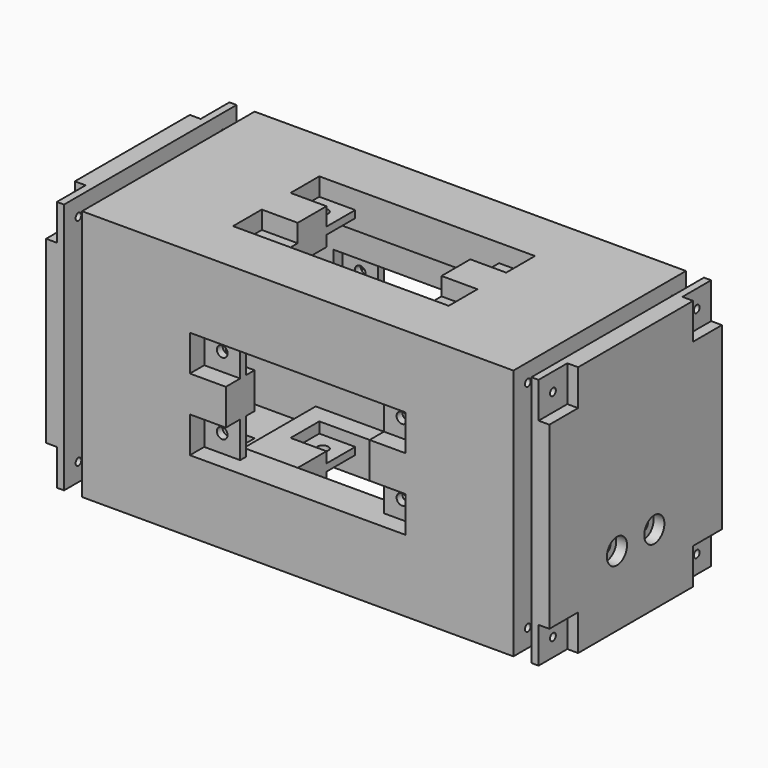
from build123d import *

# Parameters (mm, degrees)
CYLINDER006_R           = 1.5
CYLINDER006_DEPTH       = 15
CYLINDER006_PITCH_ANGLE = 90
ARRAY008_X_COUNT        = 2
ARRAY008_X_PITCH        = 52.5
ARRAY008_Y_COUNT        = 2
ARRAY008_Y_PITCH        = 25
CYLINDER004_R           = 1
CYLINDER004_DEPTH       = 30
CYLINDER004_PITCH_ANGLE = 90
ARRAY005_X_COUNT        = 2
ARRAY005_X_PITCH        = 60
ARRAY005_Y_COUNT        = 2
ARRAY005_Y_PITCH        = 50
BOX003_W                = 3
BOX003_H                = 10
BOX003_DEPTH            = 10
ARRAY004_X_COUNT        = 2
ARRAY004_X_PITCH        = 60
ARRAY004_Y_COUNT        = 2
ARRAY004_Y_PITCH        = 50
BOX002_W                = 5
BOX002_H                = 60
BOX002_DEPTH            = 70
SKETCH009_R             = 3.5
POCKET004_DEPTH         = 3
CUT009_PLACEMENT_ANGLE  = 180
BOX007_W                = 10
BOX007_H                = 15
BOX007_DEPTH            = 10
BOX006_W                = 25
BOX006_H                = 40
BOX006_DEPTH            = 60
ARRAY009_X_COUNT        = 2
ARRAY009_X_PITCH        = 95
CYLINDER003_R           = 1
CYLINDER003_DEPTH       = 6
CYLINDER003_PITCH_ANGLE = 90
ARRAY003_X_COUNT        = 2
ARRAY003_X_PITCH        = 50
ARRAY003_Y_COUNT        = 2
ARRAY003_Y_PITCH        = 60
CYLINDER002_R           = 1
CYLINDER002_DEPTH       = 6
CYLINDER002_PITCH_ANGLE = 90
ARRAY002_X_COUNT        = 2
ARRAY002_X_PITCH        = 50
ARRAY002_Y_COUNT        = 2
ARRAY002_Y_PITCH        = 60
CYLINDER001_R           = 1.5
CYLINDER001_DEPTH       = 90
CYLINDER001_ROLL_ANGLE  = 90
ARRAY001_X_COUNT        = 2
ARRAY001_X_PITCH        = 50
ARRAY001_Y_COUNT        = 2
ARRAY001_Y_PITCH        = 20
CYLINDER_R              = 1.5
CYLINDER_DEPTH          = 90
ARRAY_X_COUNT           = 2
ARRAY_X_PITCH           = 50
ARRAY_Y_COUNT           = 2
ARRAY_Y_PITCH           = 20
BOX_W                   = 120
BOX_H                   = 40
BOX_DEPTH               = 50
PAD_DEPTH               = 3
PAD_DEPTH_BACK          = 53
SKETCH001_W             = 40
SKETCH001_H             = 30
PAD001_DEPTH            = 2
PAD001_DEPTH_BACK       = 58
PAD002_DEPTH            = 10
PAD003_DEPTH            = 10
SKETCH004_W             = 60
SKETCH004_H             = 30
PAD004_DEPTH            = 20
PAD004_DEPTH_BACK       = 60
SKETCH005_W             = 2
SKETCH005_H             = 10
POCKET_DEPTH            = 10
SKETCH006_W             = 20
SKETCH006_H             = 10
POCKET001_DEPTH         = 10
SKETCH007_W             = 2
SKETCH007_H             = 10
POCKET002_DEPTH         = 10
SKETCH008_W             = 20
SKETCH008_H             = 10
POCKET003_DEPTH         = 10
BOX001_W                = 120
BOX001_H                = 60
BOX001_DEPTH            = 70
CYLINDER007_R           = 1.5
CYLINDER007_DEPTH       = 5
CYLINDER007_PITCH_ANGLE = 90
ARRAY011_Y_COUNT        = 2
ARRAY011_Y_PITCH        = 13
BOX011_W                = 3
BOX011_H                = 23
BOX011_DEPTH            = 10
BOX010_W                = 5
BOX010_H                = 23
BOX010_DEPTH            = 12
CYLINDER008_R           = 1.5
CYLINDER008_DEPTH       = 2
CYLINDER008_PITCH_ANGLE = 90
ARRAY012_Y_COUNT        = 2
ARRAY012_Y_PITCH        = 13
CYLINDER009_R           = 3.5
CYLINDER009_DEPTH       = 3
CYLINDER009_PITCH_ANGLE = 90
ARRAY013_Y_COUNT        = 2
ARRAY013_Y_PITCH        = 13
CYLINDER005_R           = 1
CYLINDER005_DEPTH       = 30
CYLINDER005_PITCH_ANGLE = 90
ARRAY007_X_COUNT        = 2
ARRAY007_X_PITCH        = 60
ARRAY007_Y_COUNT        = 2
ARRAY007_Y_PITCH        = 50
BOX005_W                = 3
BOX005_H                = 10
BOX005_DEPTH            = 10
ARRAY006_X_COUNT        = 2
ARRAY006_X_PITCH        = 60
ARRAY006_Y_COUNT        = 2
ARRAY006_Y_PITCH        = 50
BOX004_W                = 5
BOX004_H                = 60
BOX004_DEPTH            = 70
SKETCH010_W             = 23
SKETCH010_H             = 5
PAD005_DEPTH            = 5
BOX009_W                = 23
BOX009_H                = 5
BOX009_DEPTH            = 2
BOX008_W                = 5
BOX008_H                = 5
BOX008_DEPTH            = 5
ARRAY010_X_COUNT        = 2
ARRAY010_X_PITCH        = 25.5
CHAMFER_SIZE            = 2.5
CHAMFER_ROLL_ANGLE      = 90
CHAMFER_PLACEMENT_ANGLE = -90


with BuildPart() as obj1:
    # Cylinder006 → Cylinder006 (new body)
    with BuildSketch(Plane.XY):
        Circle(CYLINDER006_R)
    extrude(amount=CYLINDER006_DEPTH)


with BuildPart() as obj1_1:
    # Cylinder006 pitch: moved
    add(obj1.part.rotate(Axis((0, 0, 0), (0, 1, 0)), CYLINDER006_PITCH_ANGLE))


with BuildPart() as obj1_2:
    # Cylinder006 placement: moved
    add(obj1_1.part.moved(Location((0, 17.5, 8.5))))

    # Array008 X: obj1_2


with BuildPart() as obj1_3:
    add(obj1_2.part)
    with Locations(*[(0, 0, i * ARRAY008_X_PITCH) for i in range(1, ARRAY008_X_COUNT)]):
        add(obj1_2.part)

    # Array008 Y: obj1_2


with BuildPart() as obj1_4:
    add(obj1_3.part)
    with Locations(*[(0, i * ARRAY008_Y_PITCH, 0) for i in range(1, ARRAY008_Y_COUNT)]):
        add(obj1_3.part)


with BuildPart() as obj1_5:
    # Array008 placement: moved
    add(obj1_4.part.moved(Location((-7, 0, 0))))


with BuildPart() as agujerostapa:
    # Cylinder004 → Cylinder004 (new body)
    with BuildSketch(Plane.XY):
        Circle(CYLINDER004_R)
    extrude(amount=CYLINDER004_DEPTH)


with BuildPart() as agujerostapa_1:
    # Cylinder004 pitch: moved
    add(agujerostapa.part.rotate(Axis((0, 0, 0), (0, 1, 0)), CYLINDER004_PITCH_ANGLE))


with BuildPart() as agujerostapa_2:
    # Cylinder004 placement: moved
    add(agujerostapa_1.part.moved(Location((-10, 5, 5))))

    # Array005 X: AgujerosTapa ×2


with BuildPart() as agujerostapa_3:
    add(agujerostapa_2.part)
    with Locations(*[(0, 0, i * ARRAY005_X_PITCH) for i in range(1, ARRAY005_X_COUNT)]):
        add(agujerostapa_2.part)

    # Array005 Y: AgujerosTapa ×2


with BuildPart() as agujerostapa_4:
    add(agujerostapa_3.part)
    with Locations(*[(0, i * ARRAY005_Y_PITCH, 0) for i in range(1, ARRAY005_Y_COUNT)]):
        add(agujerostapa_3.part)


with BuildPart() as huecostapa:
    # Box003 → Box003 (new body)
    with BuildSketch(Plane.XY):
        with Locations((1.5, 5)):
            Rectangle(BOX003_W, BOX003_H)
    extrude(amount=BOX003_DEPTH)

    # Array004 X: HuecosTapa ×2


with BuildPart() as huecostapa_1:
    add(huecostapa.part)
    with Locations(*[(0, 0, i * ARRAY004_X_PITCH) for i in range(1, ARRAY004_X_COUNT)]):
        add(huecostapa.part)

    # Array004 Y: HuecosTapa ×2


with BuildPart() as huecostapa_2:
    add(huecostapa_1.part)
    with Locations(*[(0, i * ARRAY004_Y_PITCH, 0) for i in range(1, ARRAY004_Y_COUNT)]):
        add(huecostapa_1.part)


with BuildPart() as huecostapa_3:
    # Array004 placement: moved
    add(huecostapa_2.part.moved(Location((2, 0, 0))))


with BuildPart() as obj2:
    # Box002 → Box002 (new body)
    with BuildSketch(Plane.XY):
        with Locations((2.5, 30)):
            Rectangle(BOX002_W, BOX002_H)
    extrude(amount=BOX002_DEPTH)

    # Cut005: cut HuecosTapa
    add(huecostapa_3.part, mode=Mode.SUBTRACT)

    # Cut006: cut AgujerosTapa
    add(agujerostapa_4.part, mode=Mode.SUBTRACT)

    # Sketch009 → Pocket004 (cut)
    with BuildSketch(Plane.YZ.offset(5)):
        with Locations((17.5, 61)):
            Circle(SKETCH009_R)
        with Locations((42.5, 61)):
            Circle(SKETCH009_R)
        with Locations((42.5, 8.5)):
            Circle(SKETCH009_R)
        with Locations((17.5, 8.5)):
            Circle(SKETCH009_R)
    extrude(amount=-POCKET004_DEPTH, mode=Mode.SUBTRACT)

    # Cut009: cut obj1
    add(obj1_5.part, mode=Mode.SUBTRACT)


with BuildPart() as obj2_1:
    # Cut009 placement: moved
    add(obj2.part.moved(Location((-5, 50, -10))).rotate(Axis((-5, 50, -10), (0, 0, 1)), CUT009_PLACEMENT_ANGLE))


with BuildPart() as huecousb:
    # Box007 → Box007 (new body)
    with BuildSketch(Plane(origin=(8, 12.5, -12), x_dir=(1, 0, 0), z_dir=(0, 0, 1))):
        with Locations((5, 7.5)):
            Rectangle(BOX007_W, BOX007_H)
    extrude(amount=BOX007_DEPTH)


with BuildPart() as obj3:
    # Box006 → Box006 (new body)
    with BuildSketch(Plane.XY):
        with Locations((12.5, 20)):
            Rectangle(BOX006_W, BOX006_H)
    extrude(amount=BOX006_DEPTH)

    # Array009 X: obj3_2


with BuildPart() as obj3_1:
    add(obj3.part)
    with Locations(*[(i * ARRAY009_X_PITCH, 0, 0) for i in range(1, ARRAY009_X_COUNT)]):
        add(obj3.part)


with BuildPart() as obj3_2:
    # Array009 placement: moved
    add(obj3_1.part.moved(Location((0, 0, -5))))


with BuildPart() as agujeroscarcasa_b:
    # Cylinder003 → Cylinder003 (new body)
    with BuildSketch(Plane.XY):
        Circle(CYLINDER003_R)
    extrude(amount=CYLINDER003_DEPTH)


with BuildPart() as agujeroscarcasa_b_1:
    # Cylinder003 pitch: moved
    add(agujeroscarcasa_b.part.rotate(Axis((0, 0, 0), (0, 1, 0)), CYLINDER003_PITCH_ANGLE))


with BuildPart() as agujeroscarcasa_b_2:
    # Cylinder003 placement: moved
    add(agujeroscarcasa_b_1.part)

    # Array003 X: AgujerosCarcasa_B ×2


with BuildPart() as agujeroscarcasa_b_3:
    add(agujeroscarcasa_b_2.part)
    with Locations(*[(0, i * ARRAY003_X_PITCH, 0) for i in range(1, ARRAY003_X_COUNT)]):
        add(agujeroscarcasa_b_2.part)

    # Array003 Y: AgujerosCarcasa_B ×2


with BuildPart() as agujeroscarcasa_b_4:
    add(agujeroscarcasa_b_3.part)
    with Locations(*[(0, 0, i * ARRAY003_Y_PITCH) for i in range(1, ARRAY003_Y_COUNT)]):
        add(agujeroscarcasa_b_3.part)


with BuildPart() as agujeroscarcasa_b_5:
    # Array003 placement: moved
    add(agujeroscarcasa_b_4.part.moved(Location((117, -5, -5))))


with BuildPart() as agujeroscarcasa_a:
    # Cylinder002 → Cylinder002 (new body)
    with BuildSketch(Plane.XY):
        Circle(CYLINDER002_R)
    extrude(amount=CYLINDER002_DEPTH)


with BuildPart() as agujeroscarcasa_a_1:
    # Cylinder002 pitch: moved
    add(agujeroscarcasa_a.part.rotate(Axis((0, 0, 0), (0, 1, 0)), CYLINDER002_PITCH_ANGLE))


with BuildPart() as agujeroscarcasa_a_2:
    # Cylinder002 placement: moved
    add(agujeroscarcasa_a_1.part)

    # Array002 X: AgujerosCarcasa_A ×2


with BuildPart() as agujeroscarcasa_a_3:
    add(agujeroscarcasa_a_2.part)
    with Locations(*[(0, i * ARRAY002_X_PITCH, 0) for i in range(1, ARRAY002_X_COUNT)]):
        add(agujeroscarcasa_a_2.part)

    # Array002 Y: AgujerosCarcasa_A ×2


with BuildPart() as agujeroscarcasa_a_4:
    add(agujeroscarcasa_a_3.part)
    with Locations(*[(0, 0, i * ARRAY002_Y_PITCH) for i in range(1, ARRAY002_Y_COUNT)]):
        add(agujeroscarcasa_a_3.part)


with BuildPart() as agujeroscarcasa_a_5:
    # Array002 placement: moved
    add(agujeroscarcasa_a_4.part.moved(Location((-3, -5, -5))))


with BuildPart() as agujeros_7x13:
    # Cylinder001 → Cylinder001 (new body)
    with BuildSketch(Plane.XY):
        Circle(CYLINDER001_R)
    extrude(amount=CYLINDER001_DEPTH)


with BuildPart() as agujeros_7x13_1:
    # Cylinder001 roll: moved
    add(agujeros_7x13.part.rotate(Axis((0, 0, 0), (1, 0, 0)), CYLINDER001_ROLL_ANGLE))


with BuildPart() as agujeros_7x13_2:
    # Cylinder001 placement: moved
    add(agujeros_7x13_1.part)

    # Array001 X: Agujeros_7x13 ×2


with BuildPart() as agujeros_7x13_3:
    add(agujeros_7x13_2.part)
    with Locations(*[(i * ARRAY001_X_PITCH, 0, 0) for i in range(1, ARRAY001_X_COUNT)]):
        add(agujeros_7x13_2.part)

    # Array001 Y: Agujeros_7x13 ×2


with BuildPart() as agujeros_7x13_4:
    add(agujeros_7x13_3.part)
    with Locations(*[(0, 0, i * ARRAY001_Y_PITCH) for i in range(1, ARRAY001_Y_COUNT)]):
        add(agujeros_7x13_3.part)


with BuildPart() as agujeros_7x13_5:
    # Array001 placement: moved
    add(agujeros_7x13_4.part.moved(Location((35, 56, 15))))


with BuildPart() as agujeros_6x13:
    # Cylinder → Cylinder (new body)
    with BuildSketch(Plane.XY):
        Circle(CYLINDER_R)
    extrude(amount=CYLINDER_DEPTH)

    # Array X: Agujeros_6x13 ×2


with BuildPart() as agujeros_6x13_1:
    add(agujeros_6x13.part)
    with Locations(*[(i * ARRAY_X_PITCH, 0, 0) for i in range(1, ARRAY_X_COUNT)]):
        add(agujeros_6x13.part)

    # Array Y: Agujeros_6x13 ×2


with BuildPart() as agujeros_6x13_2:
    add(agujeros_6x13_1.part)
    with Locations(*[(0, i * ARRAY_Y_PITCH, 0) for i in range(1, ARRAY_Y_COUNT)]):
        add(agujeros_6x13_1.part)


with BuildPart() as agujeros_6x13_3:
    # Array placement: moved
    add(agujeros_6x13_2.part.moved(Location((35, 10, -15))))


with BuildPart() as huecointerior:
    # Box → Box (new body)
    with BuildSketch(Plane.XY):
        with Locations((60, 20)):
            Rectangle(BOX_W, BOX_H)
    extrude(amount=BOX_DEPTH)

    # Sketch → Pad (new body, two sides)
    with BuildSketch(Plane.XY.offset(50)) as pad_sk:
        Polygon((30, 35), (90, 35), (90, 25), (80, 25), (80, 15), (90, 15), (90, 5), (30, 5), (30, 15), (40, 15), (40, 25), (30, 25), align=None)
    extrude(amount=PAD_DEPTH)
    extrude(pad_sk.sketch, amount=-PAD_DEPTH_BACK)

    # Sketch001 → Pad001 (new body, two sides)
    with BuildSketch(Plane.XY.offset(53)) as pad001_sk:
        with Locations((60, 20)):
            Rectangle(SKETCH001_W, SKETCH001_H)
    extrude(amount=PAD001_DEPTH)
    extrude(pad001_sk.sketch, amount=-PAD001_DEPTH_BACK)

    # Sketch002 → Pad002 (new body)
    with BuildSketch(Plane.XY.offset(55)):
        Polygon((30, 35), (90, 35), (90, 25), (80, 25), (80, 15), (90, 15), (90, 5), (30, 5), (30, 15), (40, 15), (40, 25), (30, 25), align=None)
    extrude(amount=PAD002_DEPTH)

    # Sketch003 → Pad003 (new body)
    with BuildSketch(Plane(origin=(0, 0, -5), x_dir=(1, 0, 0), z_dir=(0, 0, -1))):
        Polygon((30, -5), (90, -5), (90, -15), (80, -15), (80, -25), (90, -25), (90, -35), (30, -35), (30, -25), (40, -25), (40, -15), (30, -15), align=None)
    extrude(amount=PAD003_DEPTH)

    # Sketch004 → Pad004 (new body, two sides)
    with BuildSketch(Plane.XZ) as pad004_sk:
        with Locations((60, 25)):
            Rectangle(SKETCH004_W, SKETCH004_H)
    extrude(amount=PAD004_DEPTH)
    extrude(pad004_sk.sketch, amount=-PAD004_DEPTH_BACK)

    # Sketch005 → Pocket (cut)
    with BuildSketch(Plane(origin=(30, 0, 0), x_dir=(0, -1, 0), z_dir=(-1, 0, 0))):
        with Locations((-44, 35)):
            Rectangle(SKETCH005_W, SKETCH005_H)
        with Locations((4, 35)):
            Rectangle(SKETCH005_W, SKETCH005_H)
        with Locations((-44, 15)):
            Rectangle(SKETCH005_W, SKETCH005_H)
        with Locations((4, 15)):
            Rectangle(SKETCH005_W, SKETCH005_H)
    extrude(amount=-POCKET_DEPTH, mode=Mode.SUBTRACT)

    # Sketch006 → Pocket001 (cut)
    with BuildSketch(Plane(origin=(30, 0, 0), x_dir=(0, -1, 0), z_dir=(-1, 0, 0))):
        with Locations((-50, 25)):
            Rectangle(SKETCH006_W, SKETCH006_H)
        with Locations((10, 25)):
            Rectangle(SKETCH006_W, SKETCH006_H)
    extrude(amount=-POCKET001_DEPTH, mode=Mode.SUBTRACT)

    # Sketch007 → Pocket002 (cut)
    with BuildSketch(Plane.YZ.offset(90)):
        with Locations((-4, 35)):
            Rectangle(SKETCH007_W, SKETCH007_H)
        with Locations((-4, 15)):
            Rectangle(SKETCH007_W, SKETCH007_H)
        with Locations((44, 35)):
            Rectangle(SKETCH007_W, SKETCH007_H)
        with Locations((44, 15)):
            Rectangle(SKETCH007_W, SKETCH007_H)
    extrude(amount=-POCKET002_DEPTH, mode=Mode.SUBTRACT)

    # Sketch008 → Pocket003 (cut)
    with BuildSketch(Plane.YZ.offset(90)):
        with Locations((-10, 25)):
            Rectangle(SKETCH008_W, SKETCH008_H)
        with Locations((50, 25)):
            Rectangle(SKETCH008_W, SKETCH008_H)
    extrude(amount=-POCKET003_DEPTH, mode=Mode.SUBTRACT)


with BuildPart() as carcasa_control:
    # Box001 → Box001 (new body)
    with BuildSketch(Plane(origin=(0, -10, -10), x_dir=(1, 0, 0), z_dir=(0, 0, 1))):
        with Locations((60, 30)):
            Rectangle(BOX001_W, BOX001_H)
    extrude(amount=BOX001_DEPTH)

    # Cut: cut HuecoInterior
    add(huecointerior.part, mode=Mode.SUBTRACT)

    # Cut001: cut Agujeros_6x13
    add(agujeros_6x13_3.part, mode=Mode.SUBTRACT)

    # Cut002: cut Agujeros_7x13
    add(agujeros_7x13_5.part, mode=Mode.SUBTRACT)

    # Cut003: cut AgujerosCarcasa_A
    add(agujeroscarcasa_a_5.part, mode=Mode.SUBTRACT)

    # Cut004: cut AgujerosCarcasa_B
    add(agujeroscarcasa_b_5.part, mode=Mode.SUBTRACT)

    # Cut010: cut obj3
    add(obj3_2.part, mode=Mode.SUBTRACT)

    # Cut011: cut HuecoUSB
    add(huecousb.part, mode=Mode.SUBTRACT)


with BuildPart() as obj4:
    # Cylinder007 → Cylinder007 (new body)
    with BuildSketch(Plane.XY):
        Circle(CYLINDER007_R)
    extrude(amount=CYLINDER007_DEPTH)


with BuildPart() as obj4_1:
    # Cylinder007 pitch: moved
    add(obj4.part.rotate(Axis((0, 0, 0), (0, 1, 0)), CYLINDER007_PITCH_ANGLE))


with BuildPart() as obj4_2:
    # Cylinder007 placement: moved
    add(obj4_1.part.moved(Location((120, 13.5, 9.5))))

    # Array011 Y: obj4_2


with BuildPart() as obj4_3:
    add(obj4_2.part)
    with Locations(*[(0, i * ARRAY011_Y_PITCH, 0) for i in range(1, ARRAY011_Y_COUNT)]):
        add(obj4_2.part)


with BuildPart() as obj5:
    # Box011 → Box011 (new body)
    with BuildSketch(Plane.XY):
        with Locations((1.5, 11.5)):
            Rectangle(BOX011_W, BOX011_H)
    extrude(amount=BOX011_DEPTH)


with BuildPart() as obj6:
    # Box010 → Box010 (new body)
    with BuildSketch(Plane.XY):
        with Locations((2.5, 11.5)):
            Rectangle(BOX010_W, BOX010_H)
    extrude(amount=BOX010_DEPTH)

    # Cut013: cut obj5
    add(obj5.part, mode=Mode.SUBTRACT)


with BuildPart() as obj6_1:
    # Cut013 placement: moved
    add(obj6.part.moved(Location((120, 8.5, 4.5))))

    # Cut014: cut obj4
    add(obj4_3.part, mode=Mode.SUBTRACT)


with BuildPart() as obj7:
    # Cylinder008 → Cylinder008 (new body)
    with BuildSketch(Plane.XY):
        Circle(CYLINDER008_R)
    extrude(amount=CYLINDER008_DEPTH)


with BuildPart() as obj7_1:
    # Cylinder008 pitch: moved
    add(obj7.part.rotate(Axis((0, 0, 0), (0, 1, 0)), CYLINDER008_PITCH_ANGLE))


with BuildPart() as obj7_2:
    # Cylinder008 placement: moved
    add(obj7_1.part.moved(Location((125, 13.5, 9.5))))

    # Array012 Y: obj7_2


with BuildPart() as obj7_3:
    add(obj7_2.part)
    with Locations(*[(0, i * ARRAY012_Y_PITCH, 0) for i in range(1, ARRAY012_Y_COUNT)]):
        add(obj7_2.part)


with BuildPart() as obj8:
    # Cylinder009 → Cylinder009 (new body)
    with BuildSketch(Plane.XY):
        Circle(CYLINDER009_R)
    extrude(amount=CYLINDER009_DEPTH)


with BuildPart() as obj8_1:
    # Cylinder009 pitch: moved
    add(obj8.part.rotate(Axis((0, 0, 0), (0, 1, 0)), CYLINDER009_PITCH_ANGLE))


with BuildPart() as obj8_2:
    # Cylinder009 placement: moved
    add(obj8_1.part.moved(Location((127, 13.5, 9.5))))

    # Array013 Y: obj8_2


with BuildPart() as obj8_3:
    add(obj8_2.part)
    with Locations(*[(0, i * ARRAY013_Y_PITCH, 0) for i in range(1, ARRAY013_Y_COUNT)]):
        add(obj8_2.part)


with BuildPart() as agujerostapa001:
    # Cylinder005 → Cylinder005 (new body)
    with BuildSketch(Plane.XY):
        Circle(CYLINDER005_R)
    extrude(amount=CYLINDER005_DEPTH)


with BuildPart() as agujerostapa001_1:
    # Cylinder005 pitch: moved
    add(agujerostapa001.part.rotate(Axis((0, 0, 0), (0, 1, 0)), CYLINDER005_PITCH_ANGLE))


with BuildPart() as agujerostapa001_2:
    # Cylinder005 placement: moved
    add(agujerostapa001_1.part.moved(Location((-10, 5, 5))))

    # Array007 X: AgujerosTapa001 ×2


with BuildPart() as agujerostapa001_3:
    add(agujerostapa001_2.part)
    with Locations(*[(0, 0, i * ARRAY007_X_PITCH) for i in range(1, ARRAY007_X_COUNT)]):
        add(agujerostapa001_2.part)

    # Array007 Y: AgujerosTapa001 ×2


with BuildPart() as agujerostapa001_4:
    add(agujerostapa001_3.part)
    with Locations(*[(0, i * ARRAY007_Y_PITCH, 0) for i in range(1, ARRAY007_Y_COUNT)]):
        add(agujerostapa001_3.part)


with BuildPart() as huecostapa001:
    # Box005 → Box005 (new body)
    with BuildSketch(Plane.XY):
        with Locations((1.5, 5)):
            Rectangle(BOX005_W, BOX005_H)
    extrude(amount=BOX005_DEPTH)

    # Array006 X: HuecosTapa001 ×2


with BuildPart() as huecostapa001_1:
    add(huecostapa001.part)
    with Locations(*[(0, 0, i * ARRAY006_X_PITCH) for i in range(1, ARRAY006_X_COUNT)]):
        add(huecostapa001.part)

    # Array006 Y: HuecosTapa001 ×2


with BuildPart() as huecostapa001_2:
    add(huecostapa001_1.part)
    with Locations(*[(0, i * ARRAY006_Y_PITCH, 0) for i in range(1, ARRAY006_Y_COUNT)]):
        add(huecostapa001_1.part)


with BuildPart() as huecostapa001_3:
    # Array006 placement: moved
    add(huecostapa001_2.part.moved(Location((2, 0, 0))))


with BuildPart() as cut016:
    # Box004 → Box004 (new body)
    with BuildSketch(Plane.XY):
        with Locations((2.5, 30)):
            Rectangle(BOX004_W, BOX004_H)
    extrude(amount=BOX004_DEPTH)

    # Cut007: cut HuecosTapa001
    add(huecostapa001_3.part, mode=Mode.SUBTRACT)

    # Cut008: cut AgujerosTapa001
    add(agujerostapa001_4.part, mode=Mode.SUBTRACT)


with BuildPart() as cut016_1:
    # Cut008 placement: moved
    add(cut016.part.moved(Location((125, -10, -10))))

    # Sketch010 → Pad005 (new body)
    with BuildSketch(Plane(origin=(125, -10, -10), x_dir=(0, -1, 0), z_dir=(-1, 0, 0))):
        with Locations((-30, 46)):
            Rectangle(SKETCH010_W, SKETCH010_H)
    extrude(amount=PAD005_DEPTH)

    # Cut015: cut obj8
    add(obj8_3.part, mode=Mode.SUBTRACT)

    # Cut016: cut obj7
    add(obj7_3.part, mode=Mode.SUBTRACT)


with BuildPart() as hueco_clavijas:
    # Box009 → Box009 (new body)
    with BuildSketch(Plane(origin=(3.75, 0, 0), x_dir=(1, 0, 0), z_dir=(0, 0, 1))):
        with Locations((11.5, 2.5)):
            Rectangle(BOX009_W, BOX009_H)
    extrude(amount=BOX009_DEPTH)


with BuildPart() as obj9:
    # Box008 → Box008 (new body)
    with BuildSketch(Plane.XY):
        with Locations((2.5, 2.5)):
            Rectangle(BOX008_W, BOX008_H)
    extrude(amount=BOX008_DEPTH)

    # Array010 X: obj9_2


with BuildPart() as obj9_1:
    add(obj9.part)
    with Locations(*[(i * ARRAY010_X_PITCH, 0, 0) for i in range(1, ARRAY010_X_COUNT)]):
        add(obj9.part)

    # Cut012: cut Hueco_clavijas
    add(hueco_clavijas.part, mode=Mode.SUBTRACT)

    # Chamfer
    chamfer_edges = [obj9_1.edges().sort_by_distance(p)[0] for p in [
        (5, 2.5, 5),
        (25.5, 2.5, 5),
    ]]
    chamfer(chamfer_edges, length=CHAMFER_SIZE)


with BuildPart() as obj9_2:
    # Chamfer roll: moved
    add(obj9_1.part.rotate(Axis((0, 0, 0), (1, 0, 0)), CHAMFER_ROLL_ANGLE))


with BuildPart() as obj9_3:
    # Chamfer placement: moved
    add(obj9_2.part.moved(Location((125, 35.25, 22.5))).rotate(Axis((125, 35.25, 22.5), (0, 0, 1)), CHAMFER_PLACEMENT_ANGLE))

    # Fusion: union Cut016
    add(cut016_1.part)


solid = Compound([obj2_1.part, carcasa_control.part, obj6_1.part, obj9_3.part])
